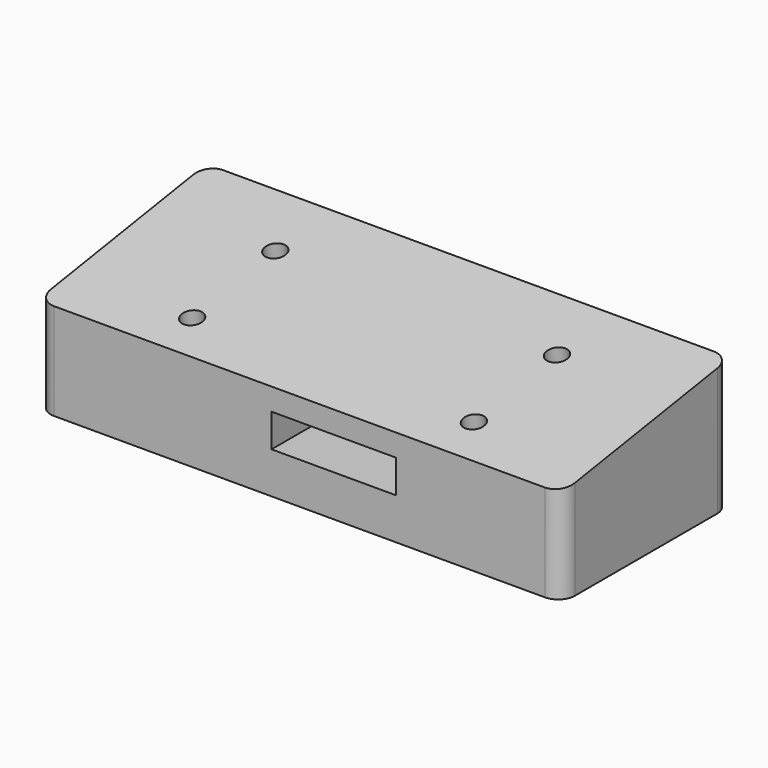
from build123d import *

# Parameters (mm, degrees)
F0_W      = 63.25
F0_H      = 25.5
F0_W_2    = 59.25
F0_H_2    = 21.5
F1_DEPTH  = 20
F3_DEPTH  = 3
F4_DEPTH  = 64
F5_W      = 15
F5_H      = 4
F6_DEPTH  = 30
F8_DEPTH  = 70
F9_R      = 2
F10_R     = 1.25
F11_DEPTH = 25


with BuildPart() as f1:
    # F0 (on Top) → F1 (new body)
    with BuildSketch(Plane.XY):
        Rectangle(F0_W, F0_H)
        Rectangle(F0_W_2, F0_H_2, mode=Mode.SUBTRACT)
        Rectangle(F0_W_2, F0_H_2)
    extrude(amount=F1_DEPTH)

    # F0 (on Top) → F3 (cut)
    with BuildSketch(Plane.XY):
        Rectangle(F0_W_2, F0_H_2)
    extrude(amount=F3_DEPTH, mode=Mode.SUBTRACT)

    # F2 (on face) → F4 (cut)
    with BuildSketch(Plane.YZ.offset(31.625)):
        Polygon((-12.75, 15.9456129), (12.75, 20), (-12.75, 20), align=None)
    extrude(amount=-F4_DEPTH, mode=Mode.SUBTRACT)

    # F5 (on face) → F6 (cut)
    with BuildSketch(Plane.XZ.offset(12.75)):
        with Locations((4.125, 7)):
            Rectangle(F5_W, F5_H)
    extrude(amount=-F6_DEPTH, mode=Mode.SUBTRACT)

    # F7 (on face) → F8 (cut)
    with BuildSketch(Plane.YZ.offset(31.625)):
        Polygon((-12.75, 11.6711445153), (12.75, 15.7628711313), (12.75, 20), (-12.75, 15.9456129), align=None)
    extrude(amount=-F8_DEPTH, mode=Mode.SUBTRACT)

    # F9
    f9_edges = [f1.edges().sort_by_distance(p)[0] for p in [
        (-31.625, 12.75, 7.881436),
        (31.625, 12.75, 7.881436),
        (-31.625, -12.75, 5.835572),
        (31.625, -12.75, 5.835572),
    ]]
    fillet(f9_edges, radius=F9_R)

    # F10 (on face) → F11 (cut)
    with BuildSketch(Plane(origin=(0, -2.1457810388, 13.3726960826), x_dir=(1, 0, 0), z_dir=(0, -0.1584332105, 0.9873696966))):
        with Locations((-17, 7.0863259119)):
            Circle(F10_R)
        with Locations((-17, -5.6142242387)):
            Circle(F10_R)
        with Locations((17, 7.0863259119)):
            Circle(F10_R)
        with Locations((17, -5.6142242387)):
            Circle(F10_R)
    extrude(amount=-F11_DEPTH, mode=Mode.SUBTRACT)


solid = f1.part
